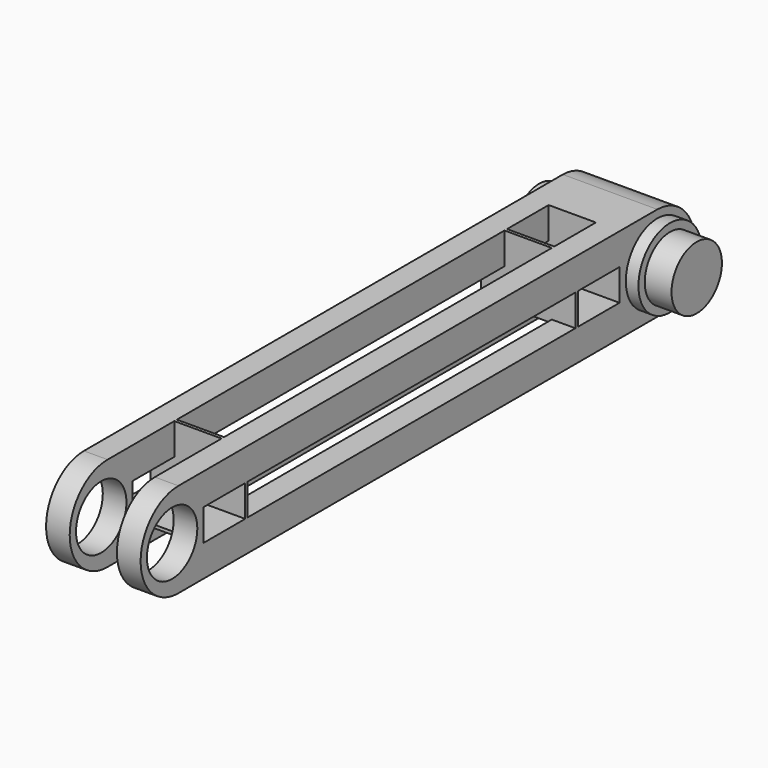
from build123d import *

# Parameters (mm, degrees)
F0_R          = 20
F1_DEPTH      = 100
F2_W          = 60
F2_H          = 60
F3_DEPTH      = 30
F3_DEPTH_BACK = 40
F4_W          = 15
F4_H          = 20
F5_DEPTH      = 380
F6_W          = 15
F6_H          = 50
F7_DEPTH      = 50
F8_R          = 20
F9_DEPTH      = 75.001
F11_DEPTH     = 75.001
F13_DEPTH     = 100.001
F14_R         = 25
F15_DEPTH     = 8
F16_W         = 60
F16_H         = 35
F17_DEPTH     = 2
F18_W         = 60
F18_H         = 42
F19_DEPTH     = 2
F20_W         = 60
F20_H         = 35
F21_DEPTH     = 2
F22_W         = 60
F22_H         = 40
F23_DEPTH     = 2


with BuildPart() as f1:
    # F0 (on Right) → F1 (new body)
    with BuildSketch(Plane.YZ):
        Circle(F0_R)
    extrude(amount=F1_DEPTH)

    # F2 (on Front) → F3 (join, two sides)
    with BuildSketch(Plane.XZ) as f3_sk:
        with Locations((45, 0)):
            Rectangle(F2_W, F2_H)
    extrude(amount=F3_DEPTH)
    extrude(f3_sk.sketch, amount=-F3_DEPTH_BACK)

    # F4 (on face) → F5 (join)
    with BuildSketch(Plane.XZ.offset(30)):
        with Locations((67.5, 20)):
            Rectangle(F4_W, F4_H)
        with Locations((22.5, 20)):
            Rectangle(F4_W, F4_H)
        with Locations((22.5, -20)):
            Rectangle(F4_W, F4_H)
        with Locations((67.5, -20)):
            Rectangle(F4_W, F4_H)
    extrude(amount=F5_DEPTH)

    # F6 (on face) → F7 (join)
    with BuildSketch(Plane.XY.offset(30)):
        with Locations((67.5, -385)):
            Rectangle(F6_W, F6_H)
        with Locations((22.5, -385)):
            Rectangle(F6_W, F6_H)
    extrude(amount=-F7_DEPTH)

    # F8 (on face) → F9 (cut, through all)
    with BuildSketch(Plane.YZ.offset(75)):
        with Locations((-385, 0)):
            Circle(F8_R)
    extrude(amount=-F9_DEPTH, mode=Mode.SUBTRACT)

    # F10 (on face) → F11 (cut, through all)
    with BuildSketch(Plane.YZ.offset(75)):
        with BuildLine():
            ThreePointArc((-380, -30), (-410, 0), (-380, 30))
            Line((-380, 30), (-431.153561, 30))
            Line((-431.153561, 30), (-431.153561, -30))
            Line((-431.153561, -30), (-380, -30))
        make_face()
    extrude(amount=-F11_DEPTH, mode=Mode.SUBTRACT)

    # F12 (on Right) → F13 (cut, through all)
    with BuildSketch(Plane.YZ):
        with BuildLine():
            ThreePointArc((0, 30), (29.527362, 0.003723), (0, -29.992553))
            Line((0, -29.992553), (38.263392, -57.712726))
            Line((38.263392, -57.712726), (73.062226, -4.995079))
            Line((73.062226, -4.995079), (49.949568, 52.137349))
            Line((49.949568, 52.137349), (0, 30))
        make_face()
    extrude(amount=F13_DEPTH, mode=Mode.SUBTRACT)

    # F14 (on face) → F15 (join)
    with BuildSketch(Plane.YZ.offset(75)):
        Circle(F14_R)
    extrude(amount=F15_DEPTH)

    # F16 (on face) → F17 (join)
    with BuildSketch(Plane.XY.offset(-10)):
        with Locations((45, -47.5)):
            Rectangle(F16_W, F16_H)
    extrude(amount=-F17_DEPTH)

    # F18 (on face) → F19 (join)
    with BuildSketch(Plane.XZ.offset(65)):
        with Locations((45, 9)):
            Rectangle(F18_W, F18_H)
    extrude(amount=-F19_DEPTH)

    # F20 (on face) → F21 (join)
    with BuildSketch(Plane.XY.offset(-10)):
        with Locations((45, -342.5)):
            Rectangle(F20_W, F20_H)
    extrude(amount=-F21_DEPTH)

    # F22 (on face) → F23 (join)
    with BuildSketch(Plane(origin=(0, -325, 0), x_dir=(-1, 0, 0), z_dir=(0, 1, 0))):
        with Locations((-45, 10)):
            Rectangle(F22_W, F22_H)
    extrude(amount=-F23_DEPTH)


solid = f1.part
